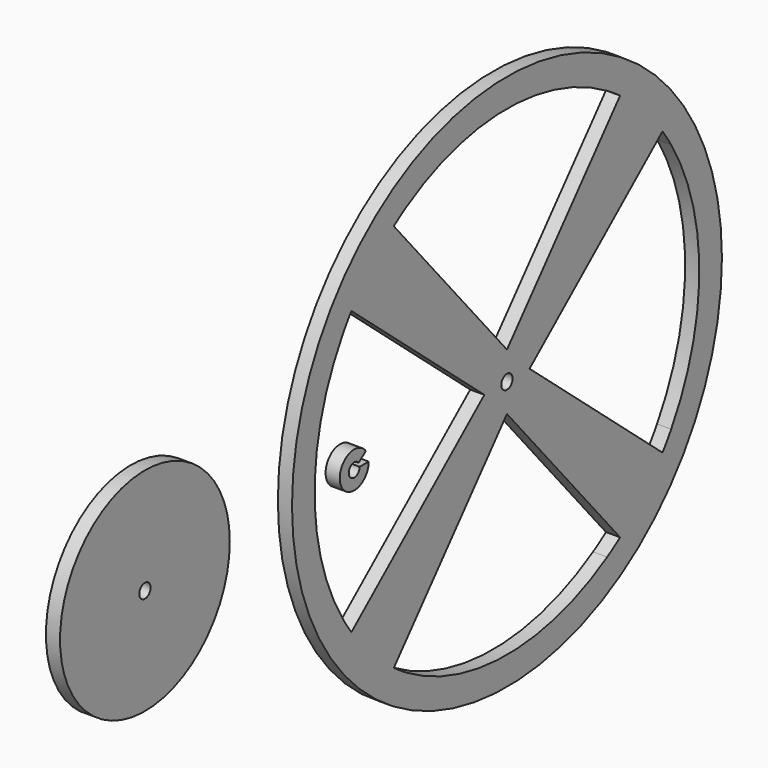
from build123d import *

# Parameters (mm, degrees)
F0_R     = 60.325
F0_R_2   = 1.5875
F1_DEPTH = 3.175
F2_R     = 23.8125
F2_R_2   = 1.5875
F3_DEPTH = 3.175
F5_DEPTH = 3.175


with BuildPart() as f1:
    # F0 (on Right) → F1 (new body)
    with BuildSketch(Plane.YZ):
        Circle(F0_R)
        with BuildLine():
            ThreePointArc((-43.649033, 31.75), (-38.166089, 38.166089), (-31.75, 43.649033))
            ThreePointArc((-31.75, 43.649033), (-29.956708, 44.898733), (-28.114289, 46.074802))
            ThreePointArc((-28.114289, 46.074802), (0, 53.975), (28.114289, 46.074802))
            ThreePointArc((28.114289, 46.074802), (29.956708, 44.898733), (31.75, 43.649033))
            ThreePointArc((31.75, 43.649033), (38.166089, 38.166089), (43.649033, 31.75))
            ThreePointArc((43.649033, 31.75), (44.898733, 29.956708), (46.074802, 28.114289))
            ThreePointArc((46.074802, 28.114289), (53.975, 0), (46.074802, -28.114289))
            ThreePointArc((46.074802, -28.114289), (44.898733, -29.956708), (43.649033, -31.75))
            ThreePointArc((43.649033, -31.75), (38.166089, -38.166089), (31.75, -43.649033))
            ThreePointArc((31.75, -43.649033), (29.956708, -44.898733), (28.114289, -46.074802))
            ThreePointArc((28.114289, -46.074802), (0, -53.975), (-28.114289, -46.074802))
            ThreePointArc((-28.114289, -46.074802), (-29.956708, -44.898733), (-31.75, -43.649033))
            ThreePointArc((-31.75, -43.649033), (-38.166089, -38.166089), (-43.649033, -31.75))
            ThreePointArc((-43.649033, -31.75), (-44.898733, -29.956708), (-46.074802, -28.114289))
            ThreePointArc((-46.074802, -28.114289), (-53.975, 0), (-46.074802, 28.114289))
            ThreePointArc((-46.074802, 28.114289), (-44.898733, 29.956708), (-43.649033, 31.75))
        make_face(mode=Mode.SUBTRACT)
        with BuildLine():
            Line((0, 6.35), (-31.75, 43.649033))
            ThreePointArc((-31.75, 43.649033), (-38.166089, 38.166089), (-43.649033, 31.75))
            Line((-43.649033, 31.75), (-6.35, 0))
            Line((-6.35, 0), (-43.649033, -31.75))
            ThreePointArc((-43.649033, -31.75), (-38.166089, -38.166089), (-31.75, -43.649033))
            Line((-31.75, -43.649033), (0, -6.35))
            Line((0, -6.35), (31.75, -43.649033))
            ThreePointArc((31.75, -43.649033), (38.166089, -38.166089), (43.649033, -31.75))
            Line((43.649033, -31.75), (6.35, 0))
            Line((6.35, 0), (43.649033, 31.75))
            ThreePointArc((43.649033, 31.75), (38.166089, 38.166089), (31.75, 43.649033))
            Line((31.75, 43.649033), (0, 6.35))
        make_face()
        Circle(F0_R_2, mode=Mode.SUBTRACT)
    extrude(amount=F1_DEPTH)


with BuildPart() as f3:
    # F2 (on Right) → F3 (new body)
    with BuildSketch(Plane.YZ):
        with Locations((-101.6, 0)):
            Circle(F2_R)
        with Locations((-101.6, 0)):
            Circle(F2_R_2, mode=Mode.SUBTRACT)
    extrude(amount=F3_DEPTH)


with BuildPart() as f5:
    # F4 (on Right) → F5 (new body)
    with BuildSketch(Plane.YZ):
        with BuildLine():
            Line((-38.7985, 0), (-41.3385, 0))
            ThreePointArc((-41.3385, 0), (-44.310175, -0.47625), (-41.636156, 0.904797))
            Line((-41.636156, 0.904797), (-39.59225, 2.412791))
            ThreePointArc((-39.59225, 2.412791), (-46.722966, -1.27), (-38.7985, 0))
        make_face()
    extrude(amount=F5_DEPTH)


solid = Compound([f1.part, f3.part, f5.part])
